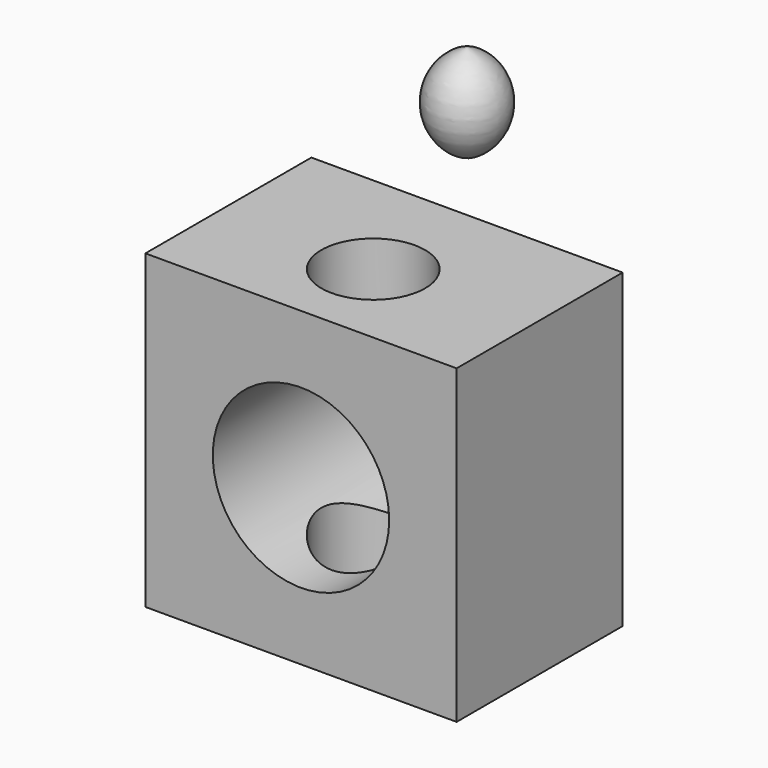
from build123d import *

# Parameters (mm, degrees)
F1_W     = 76.2
F1_H     = 76.2
F2_DEPTH = 50.8
F3_R     = 12.7
F4_DEPTH = 76.201
F7_R     = 21.59
F8_DEPTH = 59.835622


with BuildPart() as f2:
    # F1 (on Front) → F2 (new body)
    with BuildSketch(Plane.XZ):
        Rectangle(F1_W, F1_H)
    extrude(amount=F2_DEPTH)

    # F3 (on face) → F4 (cut, through all)
    with BuildSketch(Plane.XY.offset(38.1)):
        with Locations((0, -28.691975)):
            Circle(F3_R)
    extrude(amount=-F4_DEPTH, mode=Mode.SUBTRACT)

    # F7 (on face) → F8 (cut, through all)
    with BuildSketch(Plane.XZ.offset(50.8)):
        Circle(F7_R)
    extrude(amount=-F8_DEPTH, mode=Mode.SUBTRACT)


with BuildPart() as f6:
    # F5 (on Front) → F6 (revolve)
    with BuildSketch(Plane.XZ):
        with BuildLine():
            Line((0, 74.196652), (0, 50.637305))
            ThreePointArc((0, 50.637305), (9.034622, 62.416978), (0, 74.196652))
        make_face()
    revolve(axis=Axis((0, 0, 62.416978), (0, 0, -1)))


solid = Compound([f2.part, f6.part])
